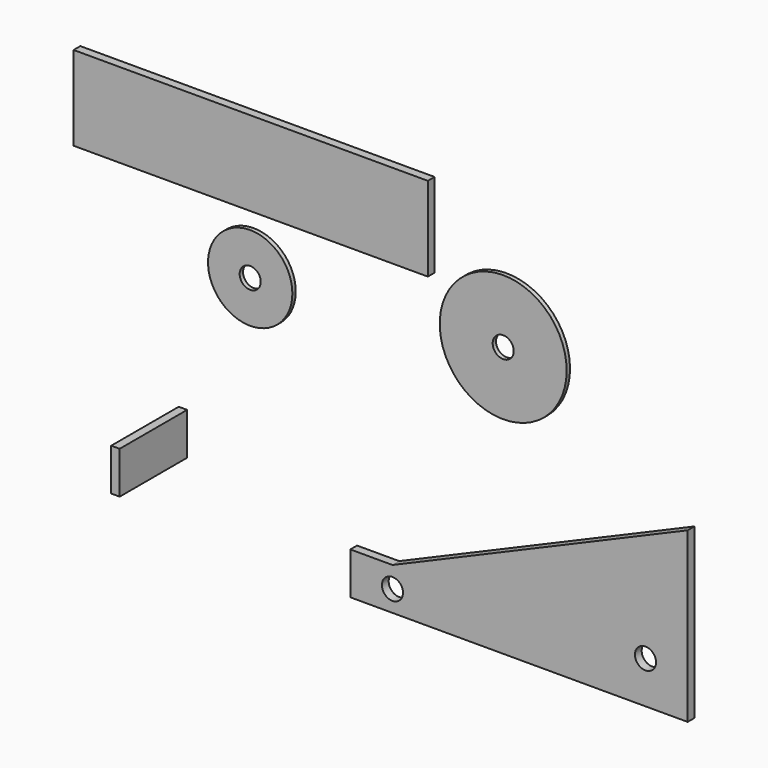
from build123d import *

# Parameters (mm, degrees)
F0_R     = 12.7
F0_R_2   = 3.175
F0_R_3   = 19.111952
F1_DEPTH = 1.27
F2_DEPTH = 2.54
F0_W     = 2.54
F0_H     = 12.7
F3_DEPTH = 25.4
F0_W_2   = 106.68
F0_H_2   = 25.4
F4_DEPTH = 2.54


with BuildPart() as f1:
    # F0 (on Front) → F1 (new body)
    with BuildSketch(Plane.XZ):
        with Locations((-38.1, 6.288048)):
            Circle(F0_R)
        with Locations((-38.1, 6.288048)):
            Circle(F0_R_2, mode=Mode.SUBTRACT)
        with Locations((38.1, 12.7)):
            Circle(F0_R_3)
        with Locations((38.1, 12.7)):
            Circle(F0_R_2, mode=Mode.SUBTRACT)
    extrude(amount=F1_DEPTH)


with BuildPart() as f2:
    # F0 (on Front) → F2 (new body)
    with BuildSketch(Plane.XZ):
        Polygon((-6.938536, -67.743659), (43.861464, -67.743659), (94.661464, -67.743659), (94.661464, -16.943659), (5.761464, -55.043659), (-6.938536, -55.043659), align=None)
        with Locations((5.761464, -61.393659)):
            Circle(F0_R_2, mode=Mode.SUBTRACT)
        with Locations((81.961438, -55.043659)):
            Circle(F0_R_2, mode=Mode.SUBTRACT)
    extrude(amount=F2_DEPTH)


with BuildPart() as f3:
    # F0 (on Front) → F3 (new body)
    with BuildSketch(Plane.XZ):
        with Locations((-59.380241, -42.064879)):
            Rectangle(F0_W, F0_H)
    extrude(amount=F3_DEPTH)


with BuildPart() as f4:
    # F0 (on Front) → F4 (new body)
    with BuildSketch(Plane.XZ):
        with Locations((-36.92552, 37.58061)):
            Rectangle(F0_W_2, F0_H_2)
    extrude(amount=F4_DEPTH)


solid = Compound([f1.part, f2.part, f3.part, f4.part])
